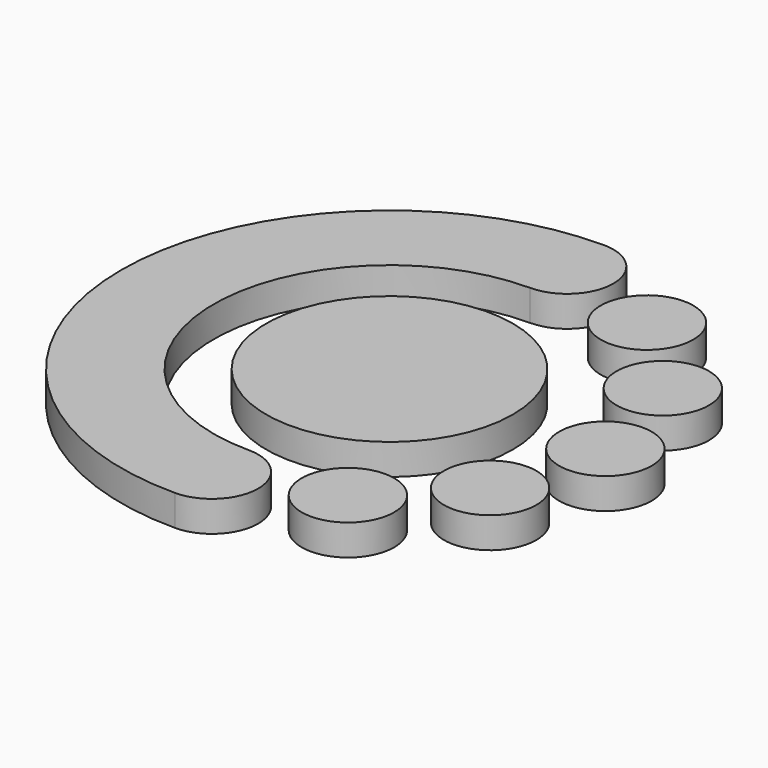
from build123d import *

# Parameters (mm, degrees)
F0_R     = 25.4
F0_R_2   = 9.525
F1_DEPTH = 6.35


with BuildPart() as f1:
    # F0 (on Top) → F1 (new body)
    with BuildSketch(Plane.XY):
        with BuildLine():
            ThreePointArc((0, 36.195), (9.525, 45.72), (0, 55.245))
            ThreePointArc((0, 55.245), (-55.245, 0), (0, -55.245))
            ThreePointArc((0, -55.245), (9.525, -45.72), (0, -36.195))
            ThreePointArc((0, -36.195), (-36.195, 0), (0, 36.195))
        make_face()
        Circle(F0_R)
        with Locations((22.225, -38.494829)):
            Circle(F0_R_2)
        with Locations((38.494829, -22.225)):
            Circle(F0_R_2)
        with Locations((44.45, 0)):
            Circle(F0_R_2)
        with Locations((38.494829, 22.225)):
            Circle(F0_R_2)
        with Locations((22.225, 38.494829)):
            Circle(F0_R_2)
    extrude(amount=F1_DEPTH)


solid = f1.part
